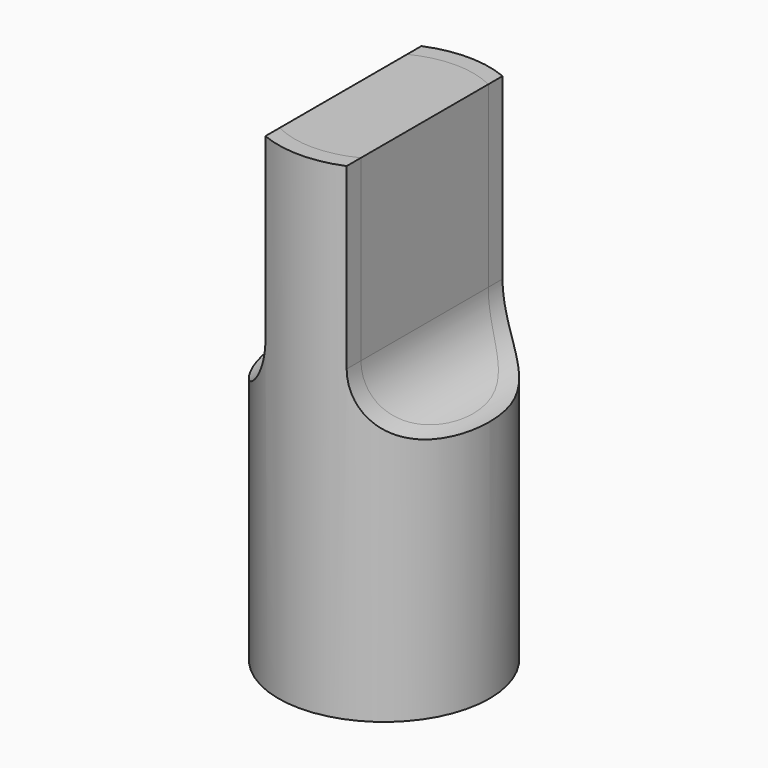
from build123d import *

# Parameters (mm, degrees)
F0_R     = 27.5
F1_DEPTH = 150
F0_R_2   = 32.5
F2_DEPTH = 150
F4_DEPTH = 50


with BuildPart() as f1:
    # F0 (on Top) → F1 (new body)
    with BuildSketch(Plane.XY):
        Circle(F0_R)
    extrude(amount=F1_DEPTH)


with BuildPart() as f2:
    # F0 (on Top) → F2 (new body)
    with BuildSketch(Plane.XY):
        Circle(F0_R_2)
        Circle(F0_R, mode=Mode.SUBTRACT)
    extrude(amount=F2_DEPTH)


with BuildPart() as f4_tool:
    # F3 (on Front) → F4 (new body, symmetric)
    with BuildSketch(Plane.XZ):
        with BuildLine():
            Line((55.4596690089, 75), (55.4596690089, 165))
            Line((55.4596690089, 165), (12.5, 165))
            Line((12.5, 165), (12.5, 95))
            ThreePointArc((12.5, 95), (18.3578643763, 80.8578643763), (32.5, 75))
            Line((32.5, 75), (55.4596690089, 75))
        make_face()
        with BuildLine():
            Line((-12.5, 165), (-55.4596690089, 165))
            Line((-55.4596690089, 165), (-55.4596690089, 75))
            Line((-55.4596690089, 75), (-32.5, 75))
            ThreePointArc((-32.5, 75), (-18.3578643763, 80.8578643763), (-12.5, 95))
            Line((-12.5, 95), (-12.5, 165))
        make_face()
    extrude(amount=F4_DEPTH, both=True)


with BuildPart() as f1_1:
    add(f1.part)

    # F4: cut by f4_tool
    add(f4_tool.part, mode=Mode.SUBTRACT)


with BuildPart() as f2_1:
    add(f2.part)

    # F4: cut by f4_tool
    add(f4_tool.part, mode=Mode.SUBTRACT)


solid = Compound([f1_1.part, f2_1.part])
